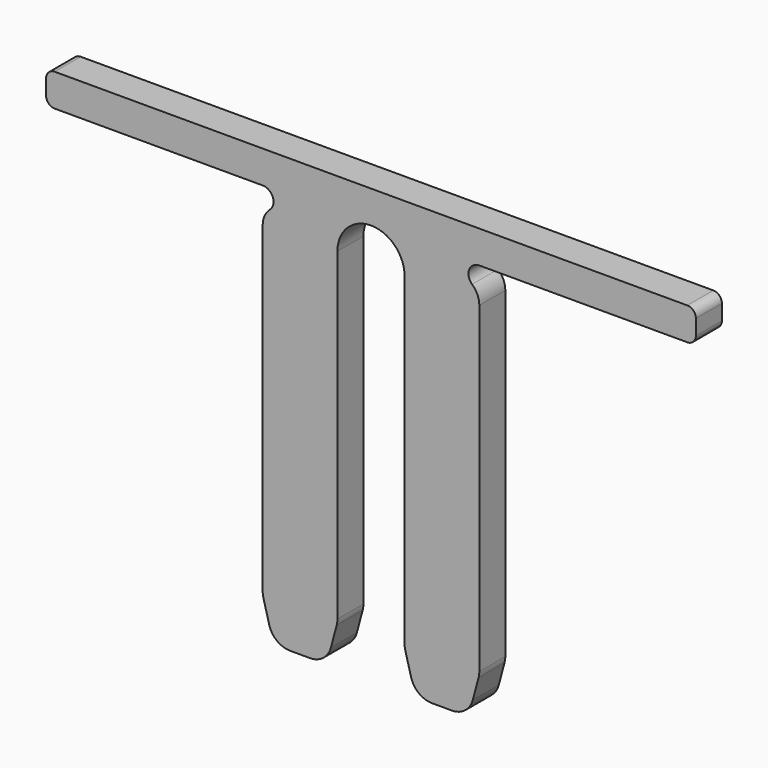
from build123d import *

# Parameters (mm, degrees)
PAD013_DEPTH = 0.75
FILLET018_R  = 0.4
FILLET019_R  = 1


with BuildPart() as part:
    # Sketch016 → Pad013 (new body, symmetric)
    with BuildSketch(Plane.XZ):
        with BuildLine():
            Line((-15, 10), (15, 10))
            Line((15, 10), (15, 8.5))
            Line((15, 8.5), (6, 8.5))
            Line((6, 8.5), (5, 8.5))
            ThreePointArc((5, 8.5), (4.5, 8), (5, 7.5))
            Line((5, 7.5), (5, -8.133975))
            Line((5, -8.133975), (4.5, -10))
            Line((2.05, -10), (4.5, -10))
            Line((1.55, -8.133975), (2.05, -10))
            Line((1.55, 6.95), (1.55, -8.133975))
            ThreePointArc((1.55, 6.95), (0, 8.5), (-1.55, 6.95))
            Line((-1.55, -8.133975), (-1.55, 6.95))
            Line((-1.55, -8.133975), (-2.05, -10))
            Line((-4.5, -10), (-2.05, -10))
            Line((-5, -8.133975), (-4.5, -10))
            Line((-5, 7.5), (-5, -8.133975))
            ThreePointArc((-5, 7.5), (-4.5, 8), (-5, 8.5))
            Line((-6, 8.5), (-5, 8.5))
            Line((-15, 8.5), (-6, 8.5))
            Line((-15, 8.5), (-15, 10))
        make_face()
    extrude(amount=PAD013_DEPTH, both=True)

    # Fillet018
    fillet018_edges = [part.edges().sort_by_distance(p)[0] for p in [
        (-15, 0, 10),
        (-15, 0, 8.5),
        (15, 0, 10),
        (15, 0, 8.5),
    ]]
    fillet(fillet018_edges, radius=FILLET018_R)

    # Fillet019
    fillet019_edges = [part.edges().sort_by_distance(p)[0] for p in [
        (-5, 0, 7.5),
        (-5, 0, -8.133975),
        (-4.5, 0, -10),
        (-2.05, 0, -10),
        (-1.55, 0, -8.133975),
        (1.55, 0, -8.133975),
        (2.05, 0, -10),
        (4.5, 0, -10),
        (5, 0, -8.133975),
        (5, 0, 7.5),
    ]]
    fillet(fillet019_edges, radius=FILLET019_R)


solid = part.part
